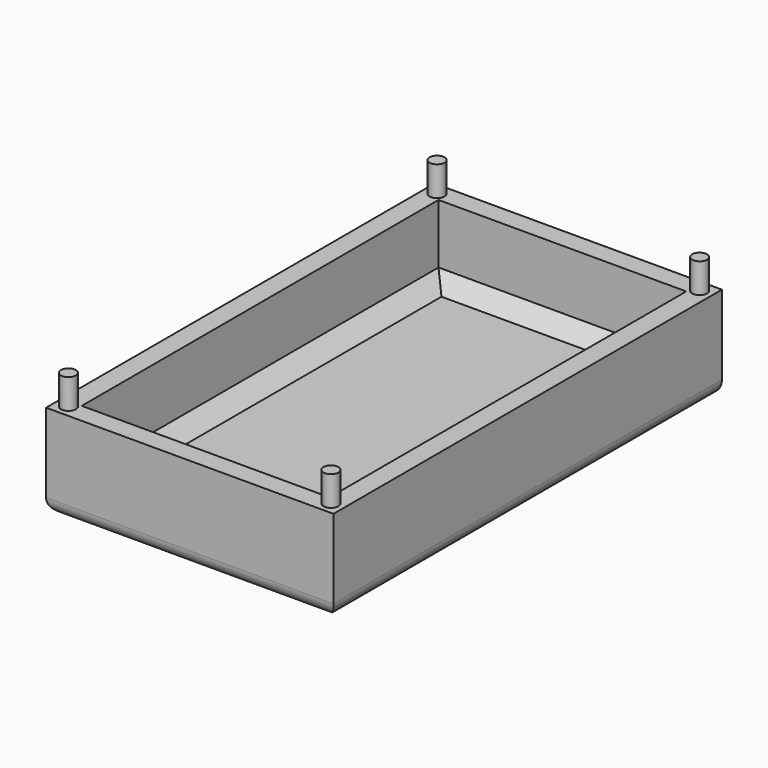
from build123d import *

# Parameters (mm, degrees)
CYLINDER001_R     = 1.5
CYLINDER001_DEPTH = 6
CYLINDER002_R     = 1.5
CYLINDER002_DEPTH = 6
CYLINDER_R        = 1.5
CYLINDER_DEPTH    = 6
CYLINDER003_R     = 1.5
CYLINDER003_DEPTH = 6
BOX001_W          = 50
BOX001_H          = 90
BOX001_DEPTH      = 15
CHAMFER_SIZE      = 3
BOX_W             = 58
BOX_H             = 98
BOX_DEPTH         = 19
FILLET_R          = 3


with BuildPart() as cylinder001:
    # Cylinder001 → Cylinder001 (new body)
    with BuildSketch(Plane(origin=(55.5, 2.5, 19), x_dir=(1, 0, 0), z_dir=(0, 0, 1))):
        Circle(CYLINDER001_R)
    extrude(amount=CYLINDER001_DEPTH)


with BuildPart() as cylinder002:
    # Cylinder002 → Cylinder002 (new body)
    with BuildSketch(Plane(origin=(2.5, 95.5, 19), x_dir=(1, 0, 0), z_dir=(0, 0, 1))):
        Circle(CYLINDER002_R)
    extrude(amount=CYLINDER002_DEPTH)


with BuildPart() as cylinder:
    # Cylinder → Cylinder (new body)
    with BuildSketch(Plane(origin=(2.5, 2.5, 19), x_dir=(1, 0, 0), z_dir=(0, 0, 1))):
        Circle(CYLINDER_R)
    extrude(amount=CYLINDER_DEPTH)


with BuildPart() as cylinder003:
    # Cylinder003 → Cylinder003 (new body)
    with BuildSketch(Plane(origin=(55.5, 95.5, 19), x_dir=(1, 0, 0), z_dir=(0, 0, 1))):
        Circle(CYLINDER003_R)
    extrude(amount=CYLINDER003_DEPTH)


with BuildPart() as chamfer_body:
    # Box001 → Box001 (new body)
    with BuildSketch(Plane(origin=(4, 4, 4), x_dir=(1, 0, 0), z_dir=(0, 0, 1))):
        with Locations((25, 45)):
            Rectangle(BOX001_W, BOX001_H)
    extrude(amount=BOX001_DEPTH)

    # Chamfer
    chamfer_edges = [chamfer_body.edges().sort_by_distance(p)[0] for p in [
        (4, 49, 4),
        (54, 49, 4),
        (29, 4, 4),
        (29, 94, 4),
    ]]
    chamfer(chamfer_edges, length=CHAMFER_SIZE)


with BuildPart() as fusion:
    # Box → Box (new body)
    with BuildSketch(Plane.XY):
        with Locations((29, 49)):
            Rectangle(BOX_W, BOX_H)
    extrude(amount=BOX_DEPTH)

    # Cut: cut Chamfer body
    add(chamfer_body.part, mode=Mode.SUBTRACT)

    # Fillet
    fillet_edges = [fusion.edges().sort_by_distance(p)[0] for p in [
        (0, 49, 0),
        (29, 0, 0),
        (58, 49, 0),
    ]]
    fillet(fillet_edges, radius=FILLET_R)

    # Fusion: union Cylinder001, Cylinder002, Cylinder, Cylinder003
    add(cylinder001.part)
    add(cylinder002.part)
    add(cylinder.part)
    add(cylinder003.part)


solid = fusion.part
